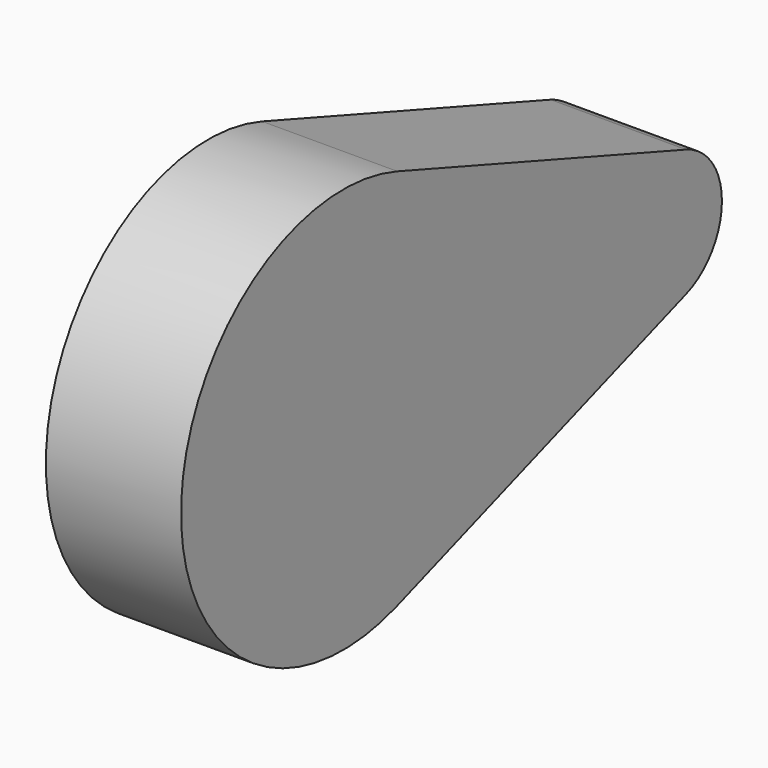
from build123d import *

# Parameters (mm, degrees)
F1_DEPTH = 25.4


with BuildPart() as f1:
    # F0 (on Right) → F1 (new body)
    with BuildSketch(Plane.YZ):
        with BuildLine():
            ThreePointArc((88.932255, 0), (86.601213, 7.333124), (80.463797, 11.974308))
            ThreePointArc((80.463797, 11.974308), (63.532255, 0), (80.463797, -11.974308))
            ThreePointArc((80.463797, -11.974308), (86.601213, -7.333124), (88.932255, 0))
        make_face()
        with BuildLine():
            ThreePointArc((12.694627, 35.922924), (31.106874, 21.999372), (38.1, 0))
            ThreePointArc((38.1, 0), (31.106874, -21.999372), (12.694627, -35.922924))
            Line((12.694627, -35.922924), (80.463797, -11.974308))
            ThreePointArc((80.463797, -11.974308), (63.532255, 0), (80.463797, 11.974308))
            Line((80.463797, 11.974308), (12.694627, 35.922924))
        make_face()
        with BuildLine():
            ThreePointArc((12.694627, -35.922924), (31.106874, -21.999372), (38.1, 0))
            ThreePointArc((38.1, 0), (31.106874, 21.999372), (12.694627, 35.922924))
            ThreePointArc((12.694627, 35.922924), (-38.1, 0), (12.694627, -35.922924))
        make_face()
    extrude(amount=F1_DEPTH)


solid = f1.part
